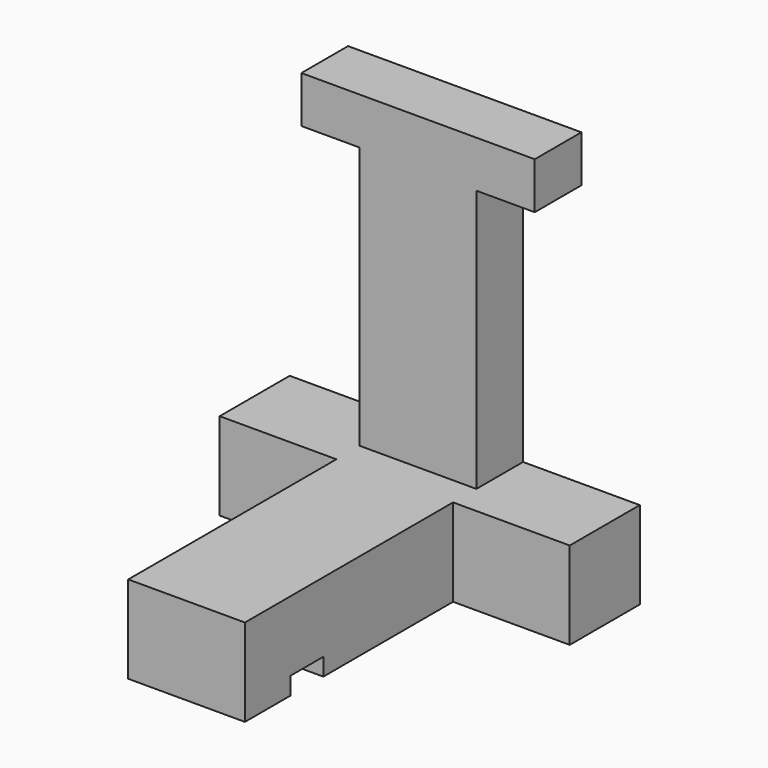
from build123d import *

# Parameters (mm, degrees)
F1_DEPTH = 15
F2_W     = 20
F2_H     = 7.034738
F3_DEPTH = 3
F4_W     = 10
F4_H     = 45
F5_DEPTH = 10


with BuildPart() as f1:
    # F0 (on Top) → F1 (new body)
    with BuildSketch(Plane.XY):
        Polygon((30, 0), (0, 0), (-30, 0), (-30, -15), (-10, -15), (-10, -59.591832), (0, -59.591832), (10, -59.591832), (10, -15), (30, -15), align=None)
    extrude(amount=F1_DEPTH)

    # F2 (on face) → F3 (cut)
    with BuildSketch(Plane(origin=(0, 0, 0), x_dir=(1, 0, 0), z_dir=(0, 0, -1))):
        with Locations((0, 46.306135)):
            Rectangle(F2_W, F2_H)
    extrude(amount=-F3_DEPTH, mode=Mode.SUBTRACT)


with BuildPart() as f5:
    # F4 (on Front) → F5 (new body)
    with BuildSketch(Plane.XZ):
        Polygon((0, 60), (0, 15), (10, 15), (10, 15.626872), (10, 60), align=None)
        with Locations((-5, 37.5)):
            Rectangle(F4_W, F4_H)
        Polygon((-10, 60), (0, 60), (0, 68), (-20, 68), (-20, 60), align=None)
        Polygon((0, 68), (0, 60), (10, 60), (20, 60), (20, 68), align=None)
    extrude(amount=F5_DEPTH)


solid = Compound([f1.part, f5.part])
